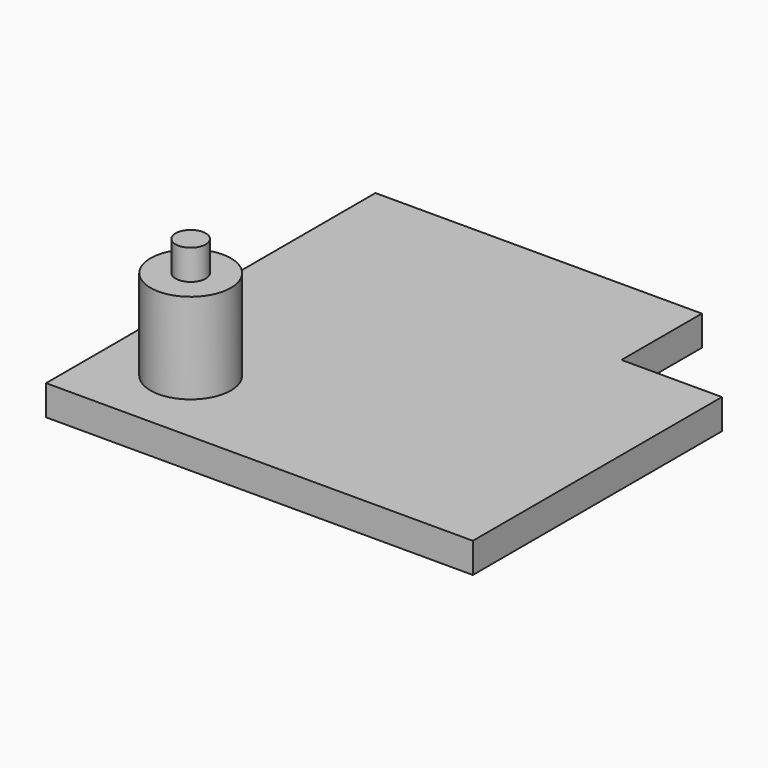
from build123d import *

# Parameters (mm, degrees)
F0_R     = 4
F1_DEPTH = 3
F2_DEPTH = 9
F3_R     = 1.5
F4_DEPTH = 3


with BuildPart() as f1:
    # F0 (on Top) → F1 (new body)
    with BuildSketch(Plane.XY):
        Polygon((0, 41), (0, 0), (42.5, 0), (42.5, 31), (32.5, 31), (32.5, 41), align=None)
        with Locations((8, 8)):
            Circle(F0_R, mode=Mode.SUBTRACT)
        with Locations((8, 8)):
            Circle(F0_R)
    extrude(amount=-F1_DEPTH)

    # F0 (on Top) → F2 (join)
    with BuildSketch(Plane.XY):
        with Locations((8, 8)):
            Circle(F0_R)
    extrude(amount=F2_DEPTH)

    # F3 (on face) → F4 (join)
    with BuildSketch(Plane.XY.offset(9)):
        with Locations((8, 8)):
            Circle(F3_R)
    extrude(amount=F4_DEPTH)


solid = f1.part
